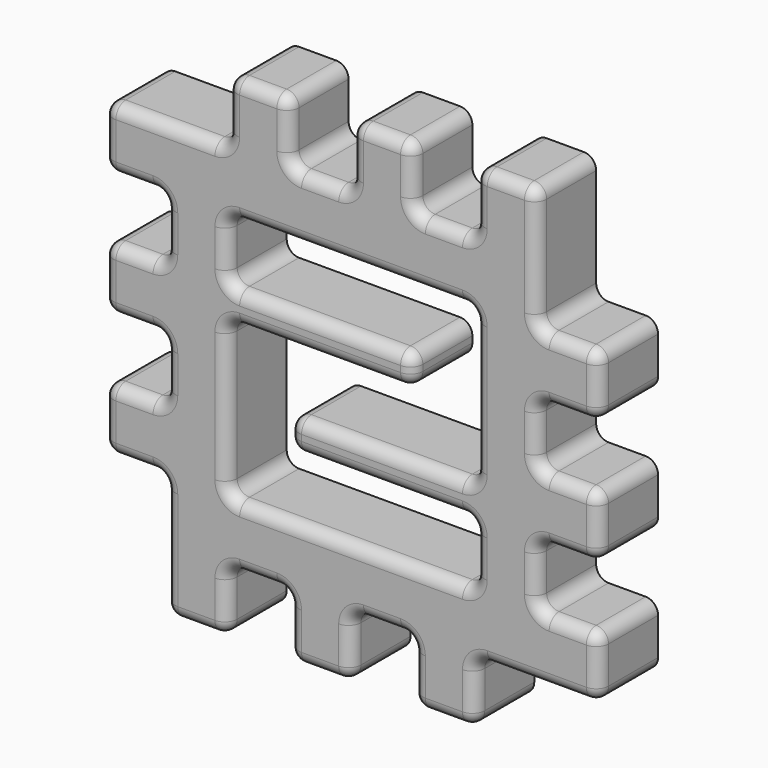
from build123d import *

# Parameters (mm, degrees)
F0_W     = 5
F0_H     = 5
F1_DEPTH = 6
F2_R     = 1
F3_R     = 1
F4_R     = 1


with BuildPart() as f1:
    # F0 (on Front) → F1 (new body)
    with BuildSketch(Plane.XZ):
        Polygon((-15, -10), (-15, -15), (-10, -15), (-5, -15), (0, -15), (5, -15), (10, -15), (15, -15), (15, -10), (15, -5), (15, 0), (15, 5), (15, 10), (15, 15), (10, 15), (5, 15), (0, 15), (-5, 15), (-10, 15), (-15, 15), (-15, 10), (-15, 5), (-15, 0), (-15, -5), align=None)
        Polygon((-10, 5), (-10, 10), (5, 10), (10, 10), (10, 5), (10, 2.5), (10, 0), (10, -2.5), (-5, -2.5), (-5, -5), (10, -5), (10, -10), (-5, -10), (-10, -10), (-10, -5), (-10, -2.5), (-10, 0), (-10, 2.5), (5, 2.5), (5, 5), align=None, mode=Mode.SUBTRACT)
        with Locations((-12.5, -17.5)):
            Rectangle(F0_W, F0_H)
        with Locations((-17.5, -7.5)):
            Rectangle(F0_W, F0_H)
        with Locations((-2.5, -17.5)):
            Rectangle(F0_W, F0_H)
        with Locations((-17.5, 2.5)):
            Rectangle(F0_W, F0_H)
        with Locations((7.5, -17.5)):
            Rectangle(F0_W, F0_H)
        with Locations((-17.5, 12.5)):
            Rectangle(F0_W, F0_H)
        with Locations((17.5, -12.5)):
            Rectangle(F0_W, F0_H)
        with Locations((-7.5, 17.5)):
            Rectangle(F0_W, F0_H)
        with Locations((17.5, -2.5)):
            Rectangle(F0_W, F0_H)
        with Locations((2.5, 17.5)):
            Rectangle(F0_W, F0_H)
        with Locations((17.5, 7.5)):
            Rectangle(F0_W, F0_H)
        with Locations((12.5, 17.5)):
            Rectangle(F0_W, F0_H)
    extrude(amount=F1_DEPTH)

    # F2
    f2_edges = [f1.edges().sort_by_distance(p)[0] for p in [
        (-10, -3, 10),
        (-10, -3, 2.5),
        (5, -3, 2.5),
        (5, -3, 5),
        (20, -3, -10),
        (20, -3, -15),
        (10, -3, -15),
        (10, -3, -20),
        (5, -3, -20),
        (0, -3, -15),
        (0, -3, -20),
        (-5, -3, -20),
        (-10, -3, -15),
        (-10, -3, -20),
        (-15, -3, -20),
        (-20, -3, -10),
        (-20, -3, 0),
        (-20, -3, 10),
        (20, -3, -5),
        (20, -3, 0),
        (20, -3, 5),
        (20, -3, 10),
        (-10, -3, -10),
        (-5, -3, -2.5),
        (15, -3, 20),
        (10, -3, 20),
        (5, -3, 15),
        (5, -3, 20),
        (0, -3, 20),
        (-5, -3, 15),
        (-5, -3, 20),
        (-10, -3, 20),
        (10, -3, -10),
        (-5, -3, -5),
        (10, -3, -2.5),
        (-20, -3, 15),
        (10, -3, 15),
        (0, -3, 15),
        (-15, -3, 5),
        (-20, -3, 5),
        (-15, -3, -5),
        (-20, -3, -5),
        (5, -3, -15),
        (-5, -3, -15),
        (-15, -3, -10),
        (-15, -3, 0),
        (-15, -3, 10),
        (10, -3, 10),
        (10, -3, -5),
        (-10, -3, 5),
        (-10, -3, 15),
        (15, -3, 10),
        (15, -3, 0),
        (15, -3, -10),
        (15, -3, -5),
        (15, -3, 5),
    ]]
    fillet(f2_edges, radius=F2_R)

    # F3
    f3_edges = [f1.edges().sort_by_distance(p)[0] for p in [
        (0, -6, 10),
    ]]
    fillet(f3_edges, radius=F3_R)

    # F4
    f4_edges = [f1.edges().sort_by_distance(p)[0] for p in [
        (-2.5, -6, 15),
        (7.5, -6, 15),
        (-15, -6, 15),
    ]]
    fillet(f4_edges, radius=F4_R)


solid = f1.part
